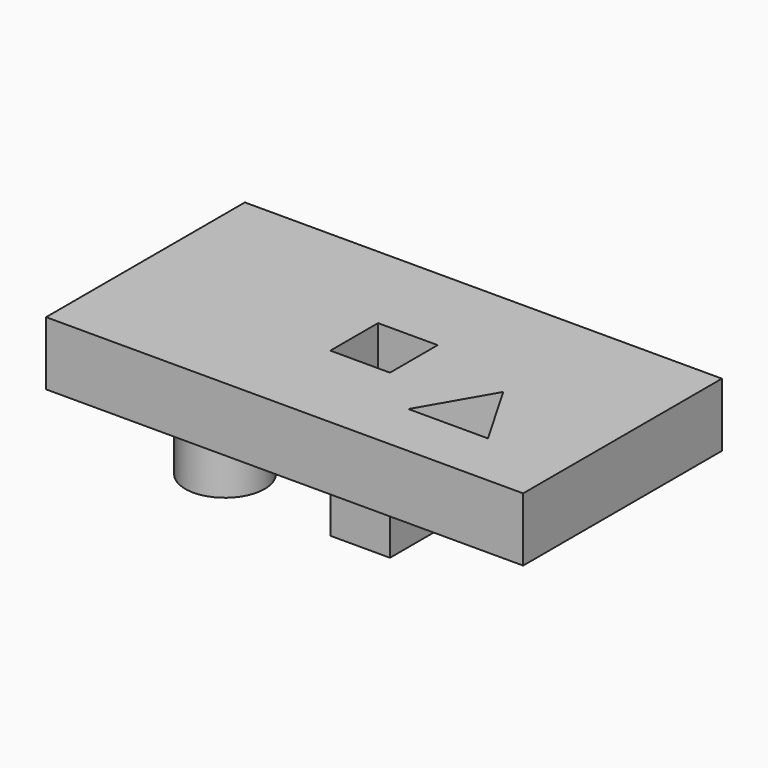
from build123d import *

# Parameters (mm, degrees)
F0_W     = 152.4
F0_H     = 79.375
F0_R     = 12.7
F0_W_2   = 19.05
F0_H_2   = 19.05
F1_DEPTH = 20.32
F2_DEPTH = 31.75
F3_W     = 19.05
F3_H     = 19.05
F4_DEPTH = 31.75


with BuildPart() as f1:
    # F0 (on Top) → F1 (new body)
    with BuildSketch(Plane.XY):
        with Locations((-31.75, 0)):
            Rectangle(F0_W, F0_H)
        Polygon((19.05, -21.997045), (-6.35, -21.997045), (6.35, 0), align=None, mode=Mode.SUBTRACT)
        with Locations((-82.55, 0)):
            Circle(F0_R, mode=Mode.SUBTRACT)
        with Locations((-31.75, 0)):
            Rectangle(F0_W_2, F0_H_2, mode=Mode.SUBTRACT)
        with Locations((-82.55, 0)):
            Circle(F0_R)
    extrude(amount=F1_DEPTH)

    # F0 (on Top) → F2 (join)
    with BuildSketch(Plane.XY):
        with Locations((-82.55, 0)):
            Circle(F0_R)
    extrude(amount=-F2_DEPTH)


with BuildPart() as f4:
    # F3 (on face) → F4 (new body)
    with BuildSketch(Plane(origin=(0, 0, 0), x_dir=(1, 0, 0), z_dir=(0, 0, -1))):
        with Locations((-31.75, 0)):
            Rectangle(F3_W, F3_H)
    extrude(amount=F4_DEPTH)


solid = Compound([f1.part, f4.part])
